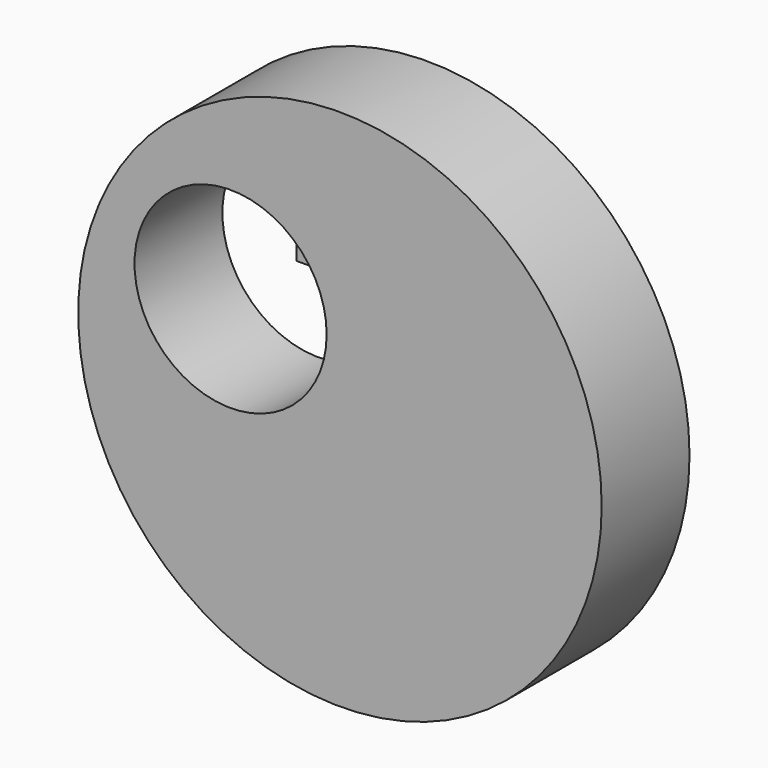
from build123d import *

# Parameters (mm, degrees)
F0_W     = 18.480018
F0_H     = 41.092269
F0_W_2   = 74.442685
F0_H_2   = 188.311562
F0_W_3   = 5.040012
F0_H_3   = 24.585083
F0_W_4   = 6.770075
F0_H_4   = 37.770435
F1_DEPTH = 25
F2_R     = 238.377561
F2_R_2   = 87.480775
F3_DEPTH = 100


with BuildPart() as f1:
    # F0 (on Front) → F1 (new body)
    with BuildSketch(Plane.XZ):
        with Locations((9.240009, 20.546134)):
            Rectangle(F0_W, F0_H)
        with Locations((83.467446, 70.804216)):
            Rectangle(F0_W_2, F0_H_2)
        with Locations((79.380009, 123.295001)):
            Rectangle(F0_W_3, F0_H_3, mode=Mode.SUBTRACT)
        with Locations((163.370102, 92.333376)):
            Rectangle(F0_W_4, F0_H_4)
    extrude(amount=F1_DEPTH)


with BuildPart() as f3:
    # F2 (on Front) → F3 (new body)
    with BuildSketch(Plane.XZ):
        with Locations((99.596448, -56.103431)):
            Circle(F2_R)
        Circle(F2_R_2, mode=Mode.SUBTRACT)
    extrude(amount=F3_DEPTH)


solid = Compound([f1.part, f3.part])
